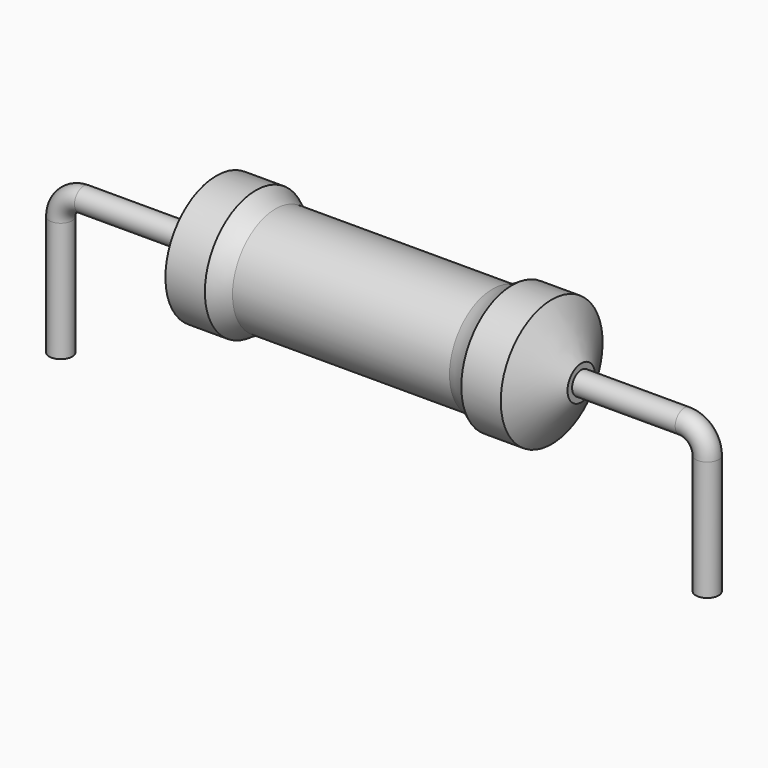
from build123d import *

# Parameters (mm, degrees)
SKETCH_R = 0.45


with BuildPart() as revolution:
    # Sketch002 → Revolution (revolve)
    with BuildSketch(Plane.XZ):
        with BuildLine():
            Line((6.1125, 5.1), (7.6625, 5.1))
            ThreePointArc((7.6625, 5.1), (8.033965, 4.87418), (8.4375, 4.7125))
            Line((8.4375, 4.7125), (16.9625, 4.7125))
            ThreePointArc((16.9625, 4.7125), (17.366035, 4.87418), (17.7375, 5.1))
            Line((17.7375, 5.1), (19.2875, 5.1))
            ThreePointArc((20.45, 3.275), (19.871357, 4.189161), (19.2875, 5.1))
            Line((20.45, 2.6), (20.45, 3.275))
            Line((4.95, 2.6), (20.45, 2.6))
            Line((4.95, 2.6), (4.95, 3.275))
            ThreePointArc((6.1125, 5.1), (5.528643, 4.189161), (4.95, 3.275))
        make_face()
    revolve(axis=Axis((4.95, 0, 2.6), (1, 0, 0)))


with BuildPart() as sweep_body:
    # Sweep: sweep along a path in Sketch001
    with BuildLine(Plane.XZ) as sweep_path:
        Line((0, -3), (0, 1.7))
        ThreePointArc((0, 1.7), (0.263601, 2.336393), (0.899992, 2.6))
        Line((0.899992, 2.6), (24.5, 2.6))
        ThreePointArc((24.5, 2.6), (25.136396, 2.336396), (25.4, 1.7))
        Line((25.4, 1.7), (25.4, -3))
    # Sketch → Sweep (sweep)
    with BuildSketch(Plane.XY.offset(-2)):
        Circle(SKETCH_R)
    sweep(path=sweep_path.line)


solid = Compound([revolution.part, sweep_body.part])
